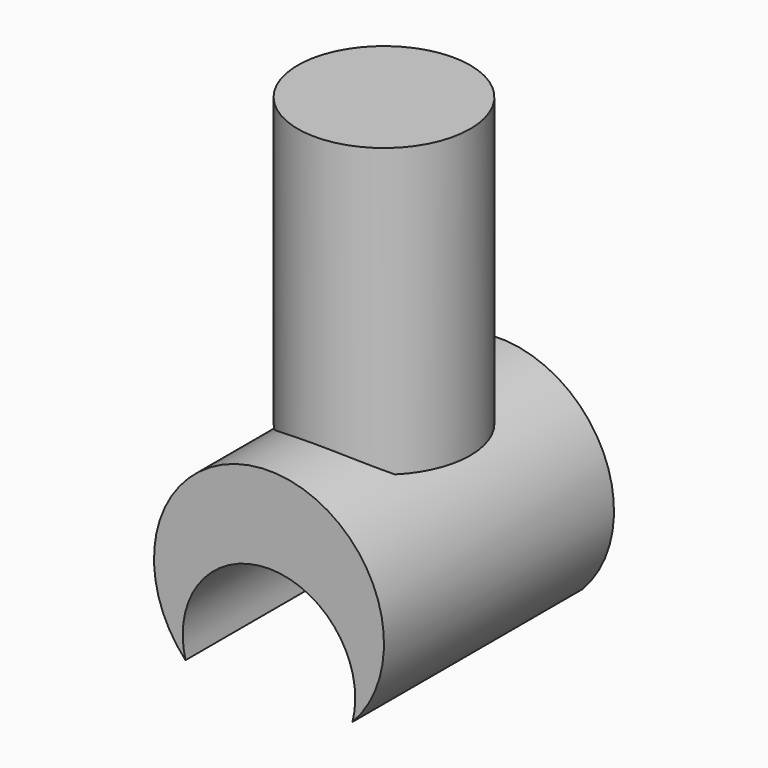
from build123d import *

# Parameters (mm, degrees)
F1_DEPTH = 2.5
F2_R     = 1.5
F3_DEPTH = 5


with BuildPart() as f1:
    # F0 (on Front) → F1 (new body, symmetric)
    with BuildSketch(Plane.XZ):
        with BuildLine():
            ThreePointArc((-1.452369, -3.078081), (0, -1.203081), (1.452369, -3.078081))
            ThreePointArc((1.452369, -3.078081), (0, 0.296919), (-1.452369, -3.078081))
        make_face()
    extrude(amount=F1_DEPTH, both=True)

    # F2 (on Top) → F3 (join)
    with BuildSketch(Plane.XY):
        Circle(F2_R)
    extrude(amount=F3_DEPTH)


solid = f1.part
